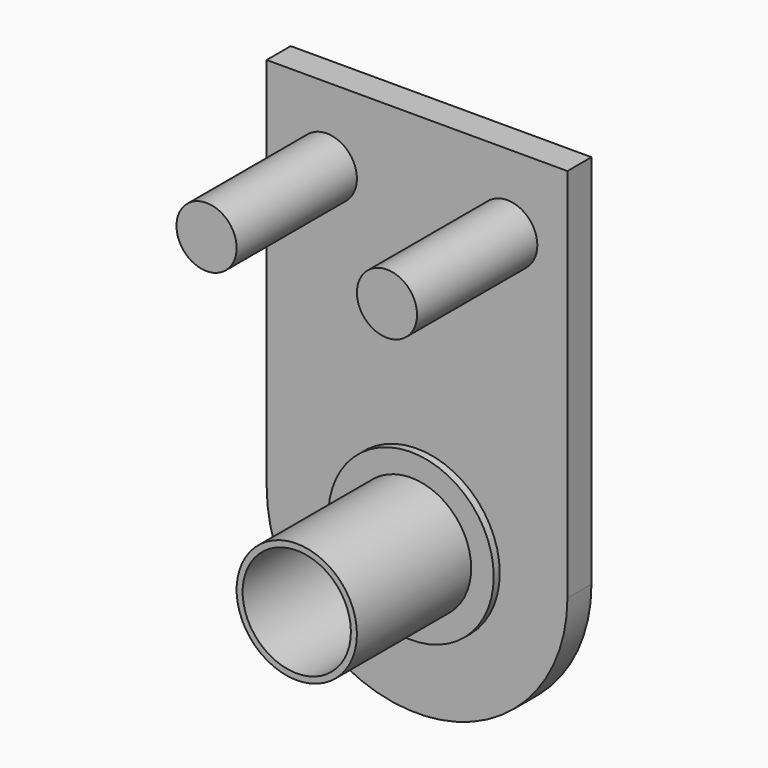
from build123d import *

# Parameters (mm, degrees)
F1_DEPTH = 2
F2_R     = 4
F2_R_2   = 3.6
F3_DEPTH = 10
F4_R     = 2
F5_DEPTH = 10
F6_R     = 5.5
F6_R_2   = 4
F7_DEPTH = 0.5


with BuildPart() as f1:
    # F0 (on Front) → F1 (new body)
    with BuildSketch(Plane.XZ):
        with BuildLine():
            ThreePointArc((-10, 8.3066238629), (0, 13), (10, 8.3066238629))
            Line((10, 8.3066238629), (10, 25))
            Line((10, 25), (-10, 25))
            Line((-10, 25), (-10, 8.3066238629))
        make_face()
        with BuildLine():
            Line((10, 0), (10, 8.3066238629))
            ThreePointArc((10, 8.3066238629), (0, 13), (-10, 8.3066238629))
            Line((-10, 8.3066238629), (-10, 0))
            ThreePointArc((-10, 0), (0, 10), (10, 0))
        make_face()
        with BuildLine():
            Line((3.6, 0), (10, 0))
            ThreePointArc((10, 0), (0, 10), (-10, 0))
            Line((-10, 0), (-3.6, 0))
            ThreePointArc((-3.6, 0), (0, 3.6), (3.6, 0))
        make_face()
        with BuildLine():
            ThreePointArc((-10, 0), (0, -10), (10, 0))
            Line((10, 0), (3.6, 0))
            ThreePointArc((3.6, 0), (0, -3.6), (-3.6, 0))
            Line((-3.6, 0), (-10, 0))
        make_face()
    extrude(amount=F1_DEPTH)

    # F2 (on face) → F3 (join)
    with BuildSketch(Plane.XZ.offset(2)):
        Circle(F2_R)
        Circle(F2_R_2, mode=Mode.SUBTRACT)
    extrude(amount=F3_DEPTH)

    # F4 (on face) → F5 (join)
    with BuildSketch(Plane.XZ.offset(2)):
        with Locations((-6, 20)):
            Circle(F4_R)
        with Locations((6, 20)):
            Circle(F4_R)
    extrude(amount=F5_DEPTH)

    # F6 (on face) → F7 (join)
    with BuildSketch(Plane.XZ.offset(2)):
        Circle(F6_R)
        Circle(F6_R_2, mode=Mode.SUBTRACT)
    extrude(amount=F7_DEPTH)


solid = f1.part
